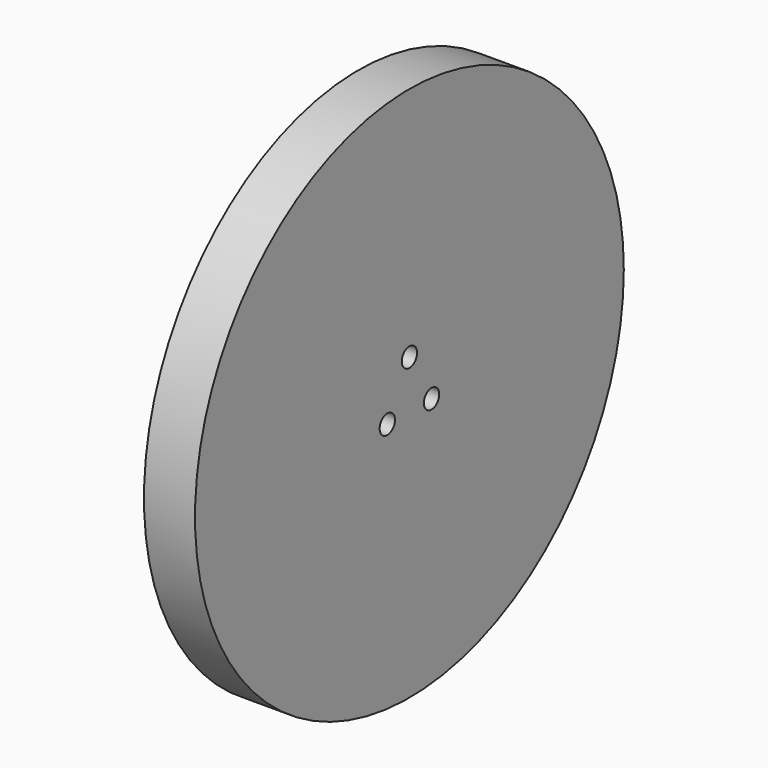
from build123d import *

# Parameters (mm, degrees)
SKETCH086_W             = 8.6
SKETCH086_H             = 20
PAD067_DEPTH            = 5
SKETCH087_W             = 8.6
SKETCH087_H             = 20
PAD068_DEPTH            = 5
BODY068_PLACEMENT_ANGLE = 334.29
SKETCH088_W             = 8.6
SKETCH088_H             = 20
PAD069_DEPTH            = 5
BODY069_PLACEMENT_ANGLE = 308.58
SKETCH089_W             = 8.6
SKETCH089_H             = 20
PAD070_DEPTH            = 5
BODY070_PLACEMENT_ANGLE = 282.87
SKETCH090_W             = 8.6
SKETCH090_H             = 20
PAD071_DEPTH            = 5
BODY071_PLACEMENT_ANGLE = 257.16
SKETCH091_W             = 8.6
SKETCH091_H             = 20
PAD072_DEPTH            = 5
BODY072_PLACEMENT_ANGLE = 231.45
SKETCH092_W             = 8.6
SKETCH092_H             = 20
PAD073_DEPTH            = 5
BODY073_PLACEMENT_ANGLE = 205.74
SKETCH093_W             = 8.6
SKETCH093_H             = 20
PAD074_DEPTH            = 5
BODY074_PLACEMENT_ANGLE = 179.97
SKETCH094_W             = 8.6
SKETCH094_H             = 20
PAD075_DEPTH            = 5
BODY075_PLACEMENT_ANGLE = 154.26
SKETCH095_W             = 8.6
SKETCH095_H             = 20
PAD076_DEPTH            = 5
BODY076_PLACEMENT_ANGLE = 128.55
SKETCH096_W             = 8.6
SKETCH096_H             = 20
PAD077_DEPTH            = 5
BODY077_PLACEMENT_ANGLE = 102.84
SKETCH097_W             = 8.6
SKETCH097_H             = 20
PAD078_DEPTH            = 5
BODY078_PLACEMENT_ANGLE = 77.13
SKETCH098_W             = 8.6
SKETCH098_H             = 20
PAD079_DEPTH            = 5
BODY079_PLACEMENT_ANGLE = 51.42
SKETCH099_W             = 8.6
SKETCH099_H             = 20
PAD080_DEPTH            = 5
BODY080_PLACEMENT_ANGLE = 25.71
SKETCH019_R             = 42
SKETCH019_R_2           = 1.5
PAD016_DEPTH            = 8
SKETCH100_R             = 8.75
POCKET009_DEPTH         = 1


with BuildPart() as body067:
    # Sketch086 → Pad067 (new body)
    with BuildSketch(Plane.YZ):
        with Locations((0, 31.5)):
            Rectangle(SKETCH086_W, SKETCH086_H)
    extrude(amount=PAD067_DEPTH)


with BuildPart() as body068:
    # Sketch087 → Pad068 (new body)
    with BuildSketch(Plane.YZ):
        with Locations((0, 31.5)):
            Rectangle(SKETCH087_W, SKETCH087_H)
    extrude(amount=PAD068_DEPTH)


with BuildPart() as body068_1:
    # Body068 placement: moved
    add(body068.part.rotate(Axis((0, 0, 0), (1, 0, 0)), BODY068_PLACEMENT_ANGLE))


with BuildPart() as body069:
    # Sketch088 → Pad069 (new body)
    with BuildSketch(Plane.YZ):
        with Locations((0, 31.5)):
            Rectangle(SKETCH088_W, SKETCH088_H)
    extrude(amount=PAD069_DEPTH)


with BuildPart() as body069_1:
    # Body069 placement: moved
    add(body069.part.rotate(Axis((0, 0, 0), (1, 0, 0)), BODY069_PLACEMENT_ANGLE))


with BuildPart() as body070:
    # Sketch089 → Pad070 (new body)
    with BuildSketch(Plane.YZ):
        with Locations((0, 31.5)):
            Rectangle(SKETCH089_W, SKETCH089_H)
    extrude(amount=PAD070_DEPTH)


with BuildPart() as body070_1:
    # Body070 placement: moved
    add(body070.part.rotate(Axis((0, 0, 0), (1, 0, 0)), BODY070_PLACEMENT_ANGLE))


with BuildPart() as body071:
    # Sketch090 → Pad071 (new body)
    with BuildSketch(Plane.YZ):
        with Locations((0, 31.5)):
            Rectangle(SKETCH090_W, SKETCH090_H)
    extrude(amount=PAD071_DEPTH)


with BuildPart() as body071_1:
    # Body071 placement: moved
    add(body071.part.rotate(Axis((0, 0, 0), (1, 0, 0)), BODY071_PLACEMENT_ANGLE))


with BuildPart() as body072:
    # Sketch091 → Pad072 (new body)
    with BuildSketch(Plane.YZ):
        with Locations((0, 31.5)):
            Rectangle(SKETCH091_W, SKETCH091_H)
    extrude(amount=PAD072_DEPTH)


with BuildPart() as body072_1:
    # Body072 placement: moved
    add(body072.part.rotate(Axis((0, 0, 0), (1, 0, 0)), BODY072_PLACEMENT_ANGLE))


with BuildPart() as body073:
    # Sketch092 → Pad073 (new body)
    with BuildSketch(Plane.YZ):
        with Locations((0, 31.5)):
            Rectangle(SKETCH092_W, SKETCH092_H)
    extrude(amount=PAD073_DEPTH)


with BuildPart() as body073_1:
    # Body073 placement: moved
    add(body073.part.rotate(Axis((0, 0, 0), (1, 0, 0)), BODY073_PLACEMENT_ANGLE))


with BuildPart() as body074:
    # Sketch093 → Pad074 (new body)
    with BuildSketch(Plane.YZ):
        with Locations((0, 31.5)):
            Rectangle(SKETCH093_W, SKETCH093_H)
    extrude(amount=PAD074_DEPTH)


with BuildPart() as body074_1:
    # Body074 placement: moved
    add(body074.part.rotate(Axis((0, 0, 0), (1, 0, 0)), BODY074_PLACEMENT_ANGLE))


with BuildPart() as body075:
    # Sketch094 → Pad075 (new body)
    with BuildSketch(Plane.YZ):
        with Locations((0, 31.5)):
            Rectangle(SKETCH094_W, SKETCH094_H)
    extrude(amount=PAD075_DEPTH)


with BuildPart() as body075_1:
    # Body075 placement: moved
    add(body075.part.rotate(Axis((0, 0, 0), (1, 0, 0)), BODY075_PLACEMENT_ANGLE))


with BuildPart() as body076:
    # Sketch095 → Pad076 (new body)
    with BuildSketch(Plane.YZ):
        with Locations((0, 31.5)):
            Rectangle(SKETCH095_W, SKETCH095_H)
    extrude(amount=PAD076_DEPTH)


with BuildPart() as body076_1:
    # Body076 placement: moved
    add(body076.part.rotate(Axis((0, 0, 0), (1, 0, 0)), BODY076_PLACEMENT_ANGLE))


with BuildPart() as body077:
    # Sketch096 → Pad077 (new body)
    with BuildSketch(Plane.YZ):
        with Locations((0, 31.5)):
            Rectangle(SKETCH096_W, SKETCH096_H)
    extrude(amount=PAD077_DEPTH)


with BuildPart() as body077_1:
    # Body077 placement: moved
    add(body077.part.rotate(Axis((0, 0, 0), (1, 0, 0)), BODY077_PLACEMENT_ANGLE))


with BuildPart() as body078:
    # Sketch097 → Pad078 (new body)
    with BuildSketch(Plane.YZ):
        with Locations((0, 31.5)):
            Rectangle(SKETCH097_W, SKETCH097_H)
    extrude(amount=PAD078_DEPTH)


with BuildPart() as body078_1:
    # Body078 placement: moved
    add(body078.part.rotate(Axis((0, 0, 0), (1, 0, 0)), BODY078_PLACEMENT_ANGLE))


with BuildPart() as body079:
    # Sketch098 → Pad079 (new body)
    with BuildSketch(Plane.YZ):
        with Locations((0, 31.5)):
            Rectangle(SKETCH098_W, SKETCH098_H)
    extrude(amount=PAD079_DEPTH)


with BuildPart() as body079_1:
    # Body079 placement: moved
    add(body079.part.rotate(Axis((0, 0, 0), (1, 0, 0)), BODY079_PLACEMENT_ANGLE))


with BuildPart() as body080:
    # Sketch099 → Pad080 (new body)
    with BuildSketch(Plane.YZ):
        with Locations((0, 31.5)):
            Rectangle(SKETCH099_W, SKETCH099_H)
    extrude(amount=PAD080_DEPTH)


with BuildPart() as body080_1:
    # Body080 placement: moved
    add(body080.part.rotate(Axis((0, 0, 0), (1, 0, 0)), BODY080_PLACEMENT_ANGLE))


with BuildPart() as body016:
    # Sketch019 → Pad016 (new body)
    with BuildSketch(Plane.YZ):
        Circle(SKETCH019_R)
        with Locations((0, 5)):
            Circle(SKETCH019_R_2, mode=Mode.SUBTRACT)
        with Locations((4.330127, -2.5)):
            Circle(SKETCH019_R_2, mode=Mode.SUBTRACT)
        with Locations((-4.330127, -2.5)):
            Circle(SKETCH019_R_2, mode=Mode.SUBTRACT)
    extrude(amount=PAD016_DEPTH)

    # Boolean014: cut Body067, Body068, Body069, Body070, Body071, Body072, Body073, Body074, Body075, Body076, Body077, Body078, Body079, Body080
    add(body067.part, mode=Mode.SUBTRACT)
    add(body068_1.part, mode=Mode.SUBTRACT)
    add(body069_1.part, mode=Mode.SUBTRACT)
    add(body070_1.part, mode=Mode.SUBTRACT)
    add(body071_1.part, mode=Mode.SUBTRACT)
    add(body072_1.part, mode=Mode.SUBTRACT)
    add(body073_1.part, mode=Mode.SUBTRACT)
    add(body074_1.part, mode=Mode.SUBTRACT)
    add(body075_1.part, mode=Mode.SUBTRACT)
    add(body076_1.part, mode=Mode.SUBTRACT)
    add(body077_1.part, mode=Mode.SUBTRACT)
    add(body078_1.part, mode=Mode.SUBTRACT)
    add(body079_1.part, mode=Mode.SUBTRACT)
    add(body080_1.part, mode=Mode.SUBTRACT)

    # Sketch100 (on DatumPlane) → Pocket009 (cut)
    with BuildSketch(Plane(origin=(0, 0, 0), x_dir=(0, -1, 0), z_dir=(-1, 0, 0))):
        Circle(SKETCH100_R)
    extrude(amount=-POCKET009_DEPTH, mode=Mode.SUBTRACT)


solid = body016.part
